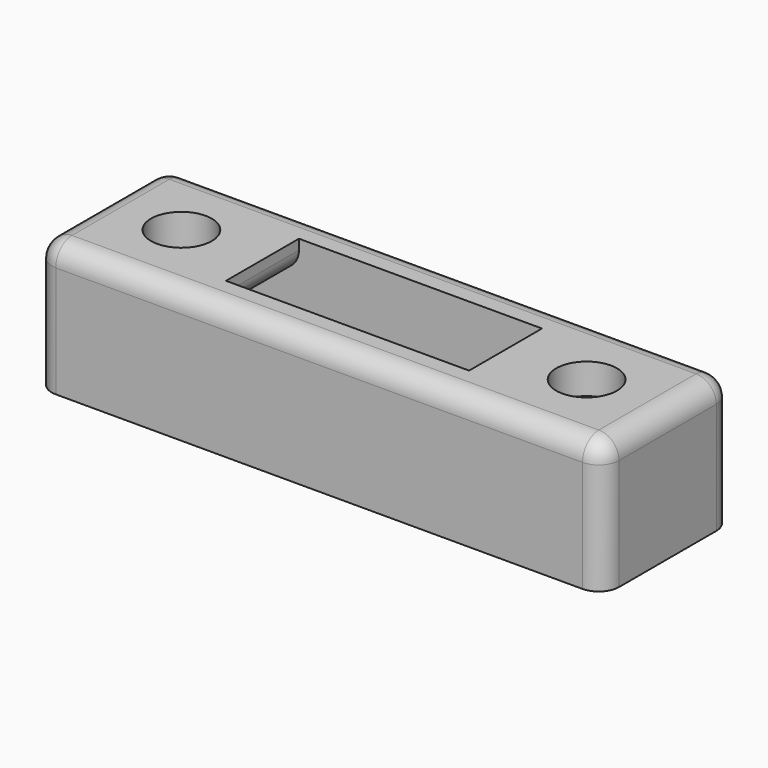
from build123d import *

# Parameters (mm, degrees)
F0_R     = 3
F1_DEPTH = 13
F2_W     = 40
F2_H     = 9
F3_DEPTH = 10
F4_R     = 2


with BuildPart() as f1:
    # F0 (on Top) → F1 (new body)
    with BuildSketch(Plane.XY):
        Polygon((-28, -8), (28, -8), (28, 0), (28, 8), (0, 8), (-28, 8), (-28, 0), align=None)
        with BuildLine():
            ThreePointArc((-17, 0), (-20, -3), (-23, 0))
            ThreePointArc((-23, 0), (-20, 3), (-17, 0))
        make_face(mode=Mode.SUBTRACT)
        Polygon((-12, 4.5), (0, 4.5), (12, 4.5), (12, -4.5), (-12, -4.5), align=None, mode=Mode.SUBTRACT)
        with Locations((20, 0)):
            Circle(F0_R, mode=Mode.SUBTRACT)
    extrude(amount=F1_DEPTH)

    # F2 (on face) → F3 (cut)
    with BuildSketch(Plane(origin=(0, 0, 0), x_dir=(1, 0, 0), z_dir=(0, 0, -1))):
        Rectangle(F2_W, F2_H)
    extrude(amount=-F3_DEPTH, mode=Mode.SUBTRACT)

    # F4
    f4_edges = [f1.edges().sort_by_distance(p)[0] for p in [
        (-28, -8, 6.5),
        (0, -8, 13),
        (0, 8, 13),
        (-28, 8, 6.5),
        (-28, 0, 13),
        (28, 8, 6.5),
        (28, 0, 13),
        (28, -8, 6.5),
        (-12, 0, 10),
        (12, 0, 10),
    ]]
    fillet(f4_edges, radius=F4_R)


solid = f1.part
